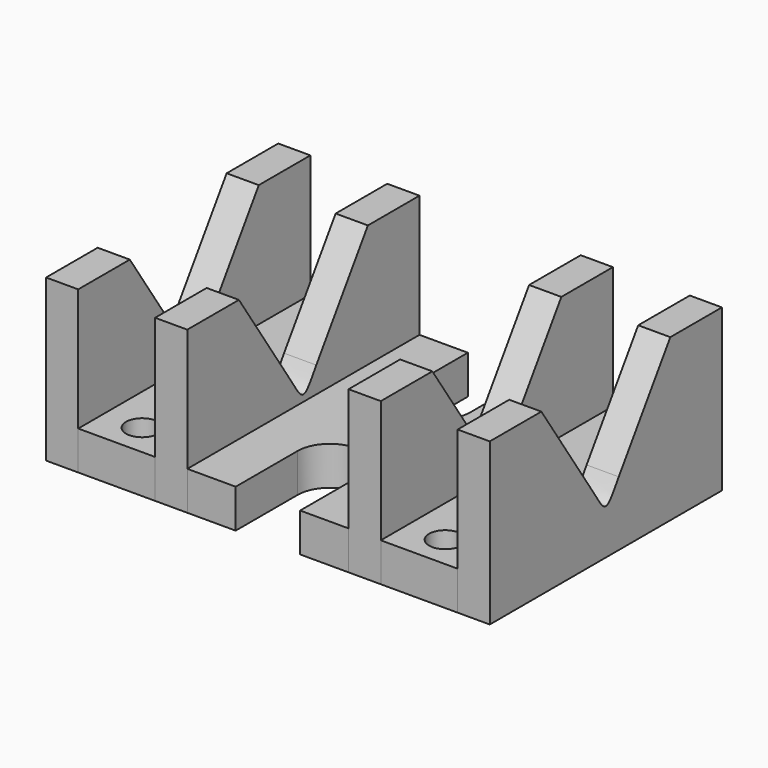
from build123d import *

# Parameters (mm, degrees)
F0_W     = 4.9838690698
F0_H     = 45
F0_W_2   = 11.9161309302
F0_R     = 2.5
F1_DEPTH = 6
F2_DEPTH = 25
F0_W_3   = 5
F4_DEPTH = 68.801


with BuildPart() as f1:
    # F0 (on Top) → F1 (new body)
    with BuildSketch(Plane.XY):
        with Locations((-31.9080654651, 0)):
            Rectangle(F0_W, F0_H)
        with Locations((-23.4580654651, 0)):
            Rectangle(F0_W_2, F0_H)
        with Locations((-23.5, -17.5)):
            Circle(F0_R, mode=Mode.SUBTRACT)
        with Locations((-23.5, 17.5)):
            Circle(F0_R, mode=Mode.SUBTRACT)
    extrude(amount=F1_DEPTH)


with BuildPart() as f1b:
    # F0 (on Top) → F1, piece 2 (new body)
    with BuildSketch(Plane.XY):
        with BuildLine():
            Line((5, -22.5), (12.5, -22.5))
            Line((12.5, -22.5), (12.5, 22.5))
            Line((12.5, 22.5), (5, 22.5))
            Line((5, 22.5), (5, 10.5))
            ThreePointArc((5, 10.5), (0, 5.5), (-5, 10.5))
            Line((-5, 10.5), (-5, 22.5))
            Line((-5, 22.5), (-12.5, 22.5))
            Line((-12.5, 22.5), (-12.5, -22.5))
            Line((-12.5, -22.5), (-5, -22.5))
            Line((-5, -22.5), (-5, -10.5))
            ThreePointArc((-5, -10.5), (0, -5.5), (5, -10.5))
            Line((5, -10.5), (5, -22.5))
        make_face()
    extrude(amount=F1_DEPTH)


with BuildPart() as f1c:
    # F0 (on Top) → F1, piece 3 (new body)
    with BuildSketch(Plane.XY):
        with Locations((23.4580654651, 0)):
            Rectangle(F0_W_2, F0_H)
        with Locations((23.5, -17.5)):
            Circle(F0_R, mode=Mode.SUBTRACT)
        with Locations((23.5, 17.5)):
            Circle(F0_R, mode=Mode.SUBTRACT)
        with Locations((31.9080654651, 0)):
            Rectangle(F0_W, F0_H)
    extrude(amount=F1_DEPTH)


with BuildPart() as f2:
    # F0 (on Top) → F2 (new body)
    with BuildSketch(Plane.XY):
        with Locations((-31.9080654651, 0)):
            Rectangle(F0_W, F0_H)
    extrude(amount=F2_DEPTH)


with BuildPart() as f2b:
    # F0 (on Top) → F2, piece 2 (new body)
    with BuildSketch(Plane.XY):
        with Locations((-15, 0)):
            Rectangle(F0_W_3, F0_H)
    extrude(amount=F2_DEPTH)


with BuildPart() as f2c:
    # F0 (on Top) → F2, piece 3 (new body)
    with BuildSketch(Plane.XY):
        with Locations((15, 0)):
            Rectangle(F0_W_3, F0_H)
    extrude(amount=F2_DEPTH)


with BuildPart() as f2d:
    # F0 (on Top) → F2, piece 4 (new body)
    with BuildSketch(Plane.XY):
        with Locations((31.9080654651, 0)):
            Rectangle(F0_W, F0_H)
    extrude(amount=F2_DEPTH)


with BuildPart() as f4_tool:
    # F3 (on face) → F4 (new body, through all)
    with BuildSketch(Plane(origin=(-34.4, 0, 0), x_dir=(0, -1, 0), z_dir=(-1, 0, 0))):
        with BuildLine():
            add(Edge.make_bspline(
                [(-2.5, 10), (0, 6.01850776), (0, 6.01850776), (2.5, 10)],
                knots=[0, 0, 0, 0, 5, 5, 5, 5], degree=3))
            Line((2.5, 10), (12.5, 25))
            Line((12.5, 25), (-12.5, 25))
            Line((-12.5, 25), (-2.5, 10))
        make_face()
    extrude(amount=-F4_DEPTH)


with BuildPart() as f2_1:
    add(f2.part)

    # F4: cut by f4_tool
    add(f4_tool.part, mode=Mode.SUBTRACT)


with BuildPart() as f2b_1:
    add(f2b.part)

    # F4: cut by f4_tool
    add(f4_tool.part, mode=Mode.SUBTRACT)


with BuildPart() as f2c_1:
    add(f2c.part)

    # F4: cut by f4_tool
    add(f4_tool.part, mode=Mode.SUBTRACT)


with BuildPart() as f2d_1:
    add(f2d.part)

    # F4: cut by f4_tool
    add(f4_tool.part, mode=Mode.SUBTRACT)


solid = Compound([f1.part, f1b.part, f1c.part, f2_1.part, f2b_1.part, f2c_1.part, f2d_1.part])
